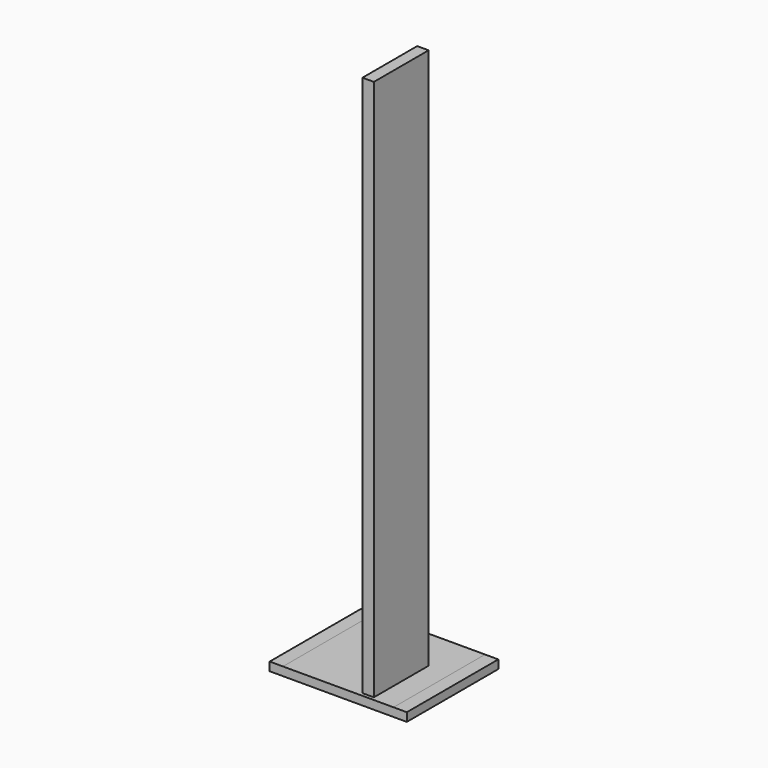
from build123d import *

# Parameters (mm, degrees)
F0_W     = 305.359244
F0_H     = 254.67813
F1_DEPTH = 19.05
F2_W     = 25.4
F2_H     = 152.4
F3_DEPTH = 3.175
F4_DEPTH = 1225.55
F5_W     = 246.175116
F5_H     = 253.385634
F6_DEPTH = 19.05


with BuildPart() as f1:
    # F0 (on Top) → F1 (new body)
    with BuildSketch(Plane.XY):
        Rectangle(F0_W, F0_H)
    extrude(amount=F1_DEPTH)


with BuildPart() as f3:
    # F2 (on Top) → F3 (new body)
    with BuildSketch(Plane.XY):
        with Locations((60.260743, -43.223813)):
            Rectangle(F2_W, F2_H)
    extrude(amount=F3_DEPTH)


with BuildPart() as f4:
    # F2 (on Top) → F4 (new body)
    with BuildSketch(Plane.XY):
        with Locations((60.260743, -43.223813)):
            Rectangle(F2_W, F2_H)
    extrude(amount=F4_DEPTH)


with BuildPart() as f6:
    # F5 (on Top) → F6 (new body)
    with BuildSketch(Plane.XY):
        Rectangle(F5_W, F5_H)
    extrude(amount=F6_DEPTH)


solid = Compound([f1.part, f3.part, f4.part, f6.part])
